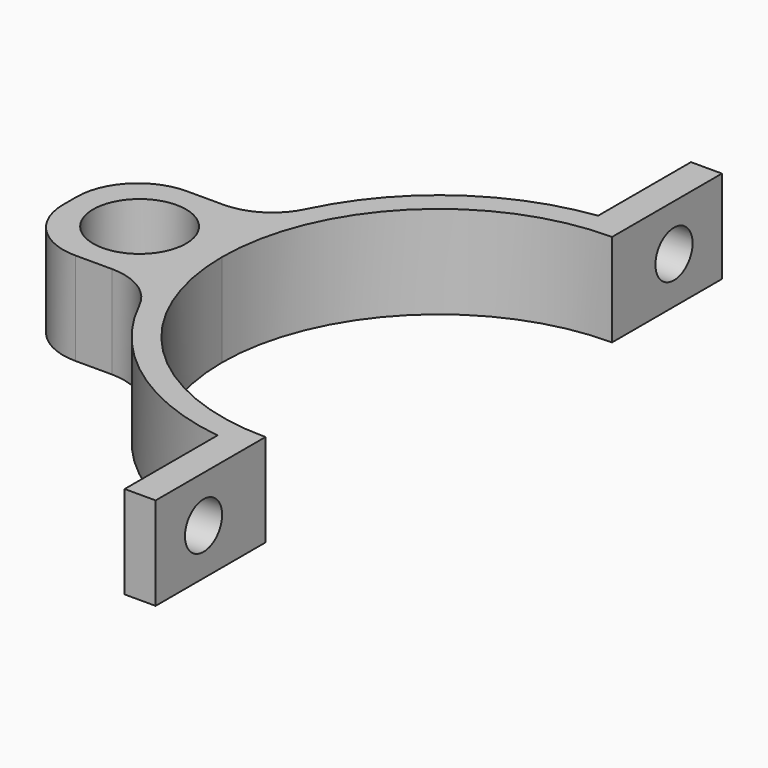
from build123d import *

# Parameters (mm, degrees)
PAD_DEPTH         = 12
PAD001_DEPTH      = 12
SKETCH001_R       = 3
POCKET_DEPTH      = 255.365913
POCKET_DEPTH_BACK = 207.701119
FILLET_R          = 7.9


with BuildPart() as part:
    # Sketch → Pad (new body)
    with BuildSketch(Plane.XY):
        with BuildLine():
            ThreePointArc((0, 28), (-19.79899, 19.79899), (-28, 0))
            Line((-32.664794, 0), (-28, 0))
            ThreePointArc((-32.664794, 0), (-38.664794, 6), (-44.664794, 0))
            Line((-47.664794, 0), (-44.664794, 0))
            Line((-47.664794, 9), (-47.664794, 0))
            Line((-29.664794, 9), (-47.664794, 9))
            ThreePointArc((-4, 30.740852), (-20.037359, 23.653842), (-29.664794, 9))
            Line((-4, 30.740852), (-4, 45.740852))
            Line((-4, 45.740852), (0, 45.740852))
            Line((0, 45.740852), (0, 28))
        make_face()
    extrude(amount=PAD_DEPTH)

    # Sketch → Pad001 (join)
    with BuildSketch(Plane.XY):
        with BuildLine():
            ThreePointArc((0, 28), (-19.79899, 19.79899), (-28, 0))
            Line((-32.664794, 0), (-28, 0))
            ThreePointArc((-32.664794, 0), (-38.664794, 6), (-44.664794, 0))
            Line((-47.664794, 0), (-44.664794, 0))
            Line((-47.664794, 9), (-47.664794, 0))
            Line((-29.664794, 9), (-47.664794, 9))
            ThreePointArc((-4, 30.740852), (-20.037359, 23.653842), (-29.664794, 9))
            Line((-4, 30.740852), (-4, 45.740852))
            Line((-4, 45.740852), (0, 45.740852))
            Line((0, 45.740852), (0, 28))
        make_face()
    pad001 = extrude(amount=PAD001_DEPTH)

    # Mirrored001: Pad001 across Sketch H_Axis
    add(pad001.mirror(Plane.ZX))

    # Sketch001 → Pocket (cut, two sides)
    with BuildSketch(Plane.YZ) as pocket_sk:
        with Locations((-38, 6)):
            Circle(SKETCH001_R)
    pocket = extrude(amount=-POCKET_DEPTH, mode=Mode.SUBTRACT) + extrude(pocket_sk.sketch, amount=POCKET_DEPTH_BACK, mode=Mode.SUBTRACT)

    # Mirrored: Pocket across Sketch001 V_Axis
    add(pocket.mirror(Plane(origin=(0, 0, 0), x_dir=(1, 0, 0), z_dir=(0, 1, 0))), mode=Mode.SUBTRACT)

    # Fillet
    fillet_edges = [part.edges().sort_by_distance(p)[0] for p in [
        (-47.664794, 9, 6),
        (-47.664794, -9, 6),
        (-29.664794, -9, 6),
        (-29.664794, 9, 6),
    ]]
    fillet(fillet_edges, radius=FILLET_R)


solid = part.part
